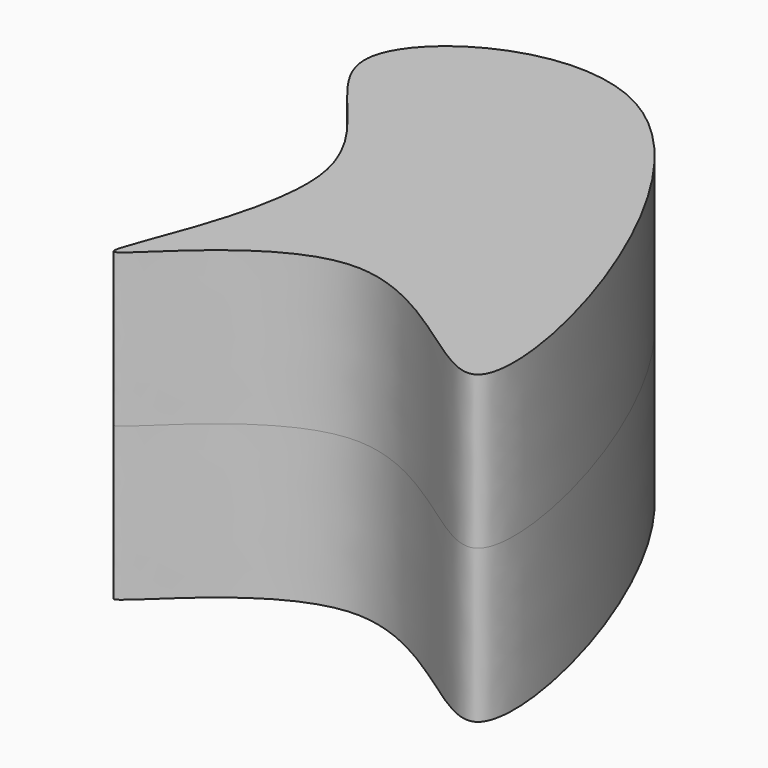
from build123d import *

# Parameters (mm, degrees)
F1_DEPTH = 25.4
F2_DEPTH = 25.4


with BuildPart() as f1:
    # F0 (on Top) → F1 (new body)
    with BuildSketch(Plane.XY):
        with BuildLine():
            add(Edge.make_bspline(
                [(0, 40.5718050897), (-15.3512749081, 49.1501824172), (-51.4285066616, 27.9911265349), (-6.5811252718, 5.7797674837), (-38.7657724105, -52.5105937794), (0.268395961, -0.8108217929), (48.4461705243, -62.0205460481), (22.461598773, 28.0201394589), (0, 40.5718050897)],
                knots=[0, 0, 0, 0, 0.1593353524, 0.3100884593, 0.4655170612, 0.6126519087, 0.7668645257, 1, 1, 1, 1], degree=3))
        make_face()
    extrude(amount=F1_DEPTH)

    # F2 (add): a face of the model
    f2_faces = [f1.faces().sort_by_distance(p)[0] for p in [
        (-1.0732507369, 6.9032473887, 25.4),
    ]]
    extrude(f2_faces, amount=F2_DEPTH)


solid = f1.part
